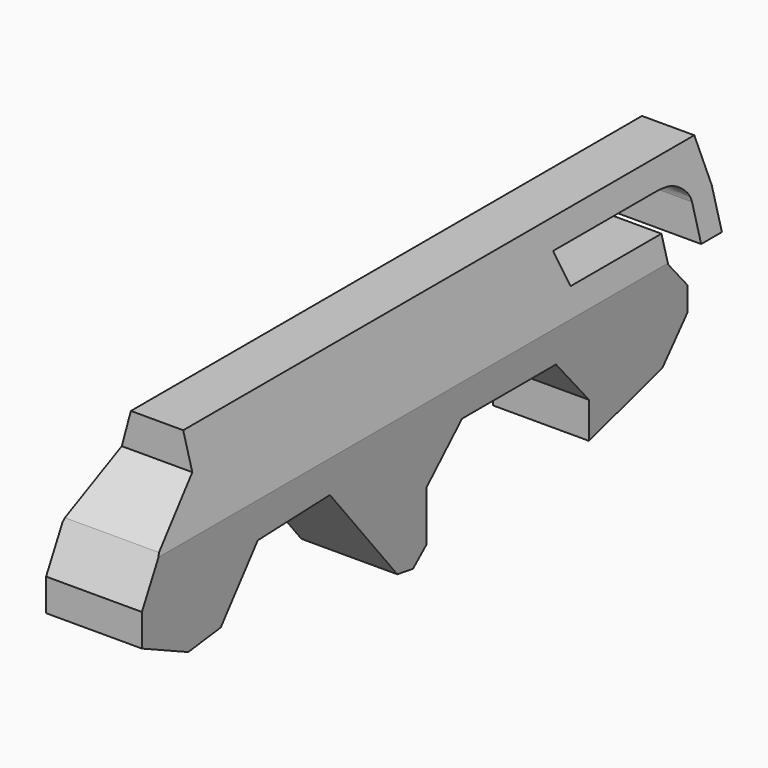
from build123d import *

# Parameters (mm, degrees)
F1_DEPTH = 19.05
F3_DEPTH = 329.184


with BuildPart() as f1:
    # F0 (on Right) → F1 (new body, symmetric)
    with BuildSketch(Plane.YZ):
        with BuildLine():
            Line((130.7679557204, 33.9490696788), (-123.2320442796, 33.9490696788))
            Line((-123.2320442796, 33.9490696788), (-123.2320442796, 20.4373151064))
            Line((-123.2320442796, 20.4373151064), (-145.6500738859, 2.9786610976))
            Line((-145.6500738859, 2.9786610976), (-154.5651257038, -14.1085293144))
            Line((-154.5651257038, -14.1085293144), (-154.5651257038, -26.9239228219))
            Line((-154.5651257038, -26.9239228219), (-131.5345615149, -37.5105552375))
            Line((-131.5345615149, -37.5105552375), (-115.3760254383, -35.4675203562))
            Line((-115.3760254383, -35.4675203562), (-96.988722682, -12.4369570985))
            Line((-96.988722682, -12.4369570985), (-61.1427687109, -11.1306142062))
            Line((-61.1427687109, -11.1306142062), (-27.6396553963, -52.5183081627))
            Line((-27.6396553963, -52.5183081627), (-19.8306553066, -53.7677481771))
            Line((-19.8306553066, -53.7677481771), (-13.1149124354, -47.9890853167))
            Line((-13.1149124354, -47.9890853167), (-13.1149124354, -27.9980506748))
            Line((-13.1149124354, -27.9980506748), (4.5334179886, -11.1306142062))
            Line((4.5334179886, -11.1306142062), (51.2312352657, -11.1306142062))
            Line((51.2312352657, -11.1306142062), (67.6301345229, -30.1845706999))
            Line((67.6301345229, -30.1845706999), (67.6301345229, -44.5531271398))
            Line((67.6301345229, -44.5531271398), (104.1762456298, -33.7767116725))
            Line((104.1762456298, -33.7767116725), (116.6706457734, -19.4081515074))
            Line((116.6706457734, -19.4081515074), (116.6706457734, -10.0373541936))
            Line((116.6706457734, -10.0373541936), (106.831304729, 1.3637846569))
            Line((106.831304729, 1.3637846569), (106.831304729, 11.2031241879))
            Line((106.831304729, 11.2031241879), (61.695292592, 11.2031241879))
            Line((61.695292592, 11.2031241879), (57.3222562671, 24.1660624743))
            Line((57.3222562671, 24.1660624743), (107.5337901711, 24.1660624743))
            add(Edge.make_bspline(
                [(123.3863830566, 15.2503615245), (123.3863830566, 17.9006829858), (118.3805579667, 22.9989987358), (113.2525354624, 24.1660624743), (107.5337901711, 24.1660624743)],
                knots=[0, 0, 0, 0, 0.4526523679, 1, 1, 1, 1], degree=3))
            Line((123.3863830566, 15.2503615245), (123.3863830566, 1.6761446605))
            Line((123.3863830566, 1.6761446605), (133.6942613125, 1.6761446605))
            Line((133.6942613125, 1.6761446605), (133.6942613125, 16.8256033212))
            Line((133.6942613125, 16.8256033212), (130.7679557204, 33.9490696788))
        make_face()
    extrude(amount=F1_DEPTH, both=True)

    # F2 (on face) → F3 (cut)
    with BuildSketch(Plane(origin=(0, 133.6942613125, 0), x_dir=(-1, 0, 0), z_dir=(0, 1, 0))):
        Polygon((-19.05, 77.0704038441), (-19.05, 1.6761446605), (0, 72.7717125446), (19.05, 1.6761446605), (19.05, 77.0704038441), align=None)
    extrude(amount=-F3_DEPTH, mode=Mode.SUBTRACT)


solid = f1.part
